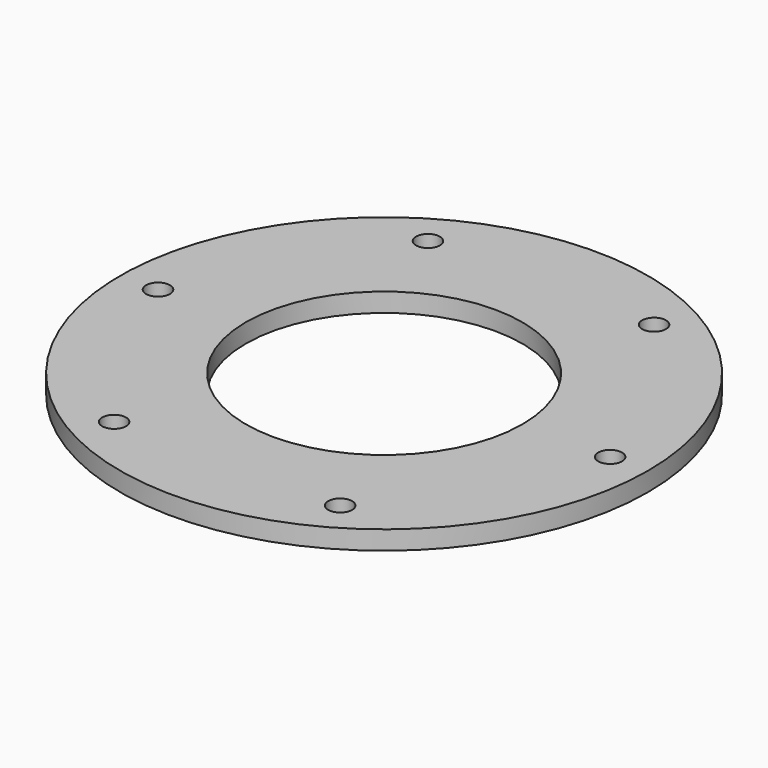
from build123d import *

# Parameters (mm, degrees)
SKETCH010_R      = 9.5
EXTRUDE004_DEPTH = 30
ARRAY003_COUNT   = 6
SKETCH005_W      = 100
SKETCH005_H      = 15


with BuildPart() as array003:
    # Sketch010 (on Face3 of Revolve) → Extrude004 (new body)
    with BuildSketch(Plane.XY.offset(15)):
        with Locations((180, -0.1655)):
            Circle(SKETCH010_R)
    extrude(amount=-EXTRUDE004_DEPTH)

    # Array003: Array003 ×6 about axis
    array003_axis = Axis((0, 0, 590.09), (0, 0, 1))


with BuildPart() as array003_1:
    add(array003.part)
    for i in range(1, ARRAY003_COUNT):
        add(array003.part.rotate(array003_axis, i * 360 / ARRAY003_COUNT))


with BuildPart() as cut005:
    # Sketch005 → Revolve (revolve)
    with BuildSketch(Plane.XZ):
        with Locations((160, 7.5)):
            Rectangle(SKETCH005_W, SKETCH005_H)
    revolve(axis=Axis((0, 0, 0), (0, 0, 1)))

    # Cut005: cut Array003
    add(array003_1.part, mode=Mode.SUBTRACT)


solid = cut005.part
